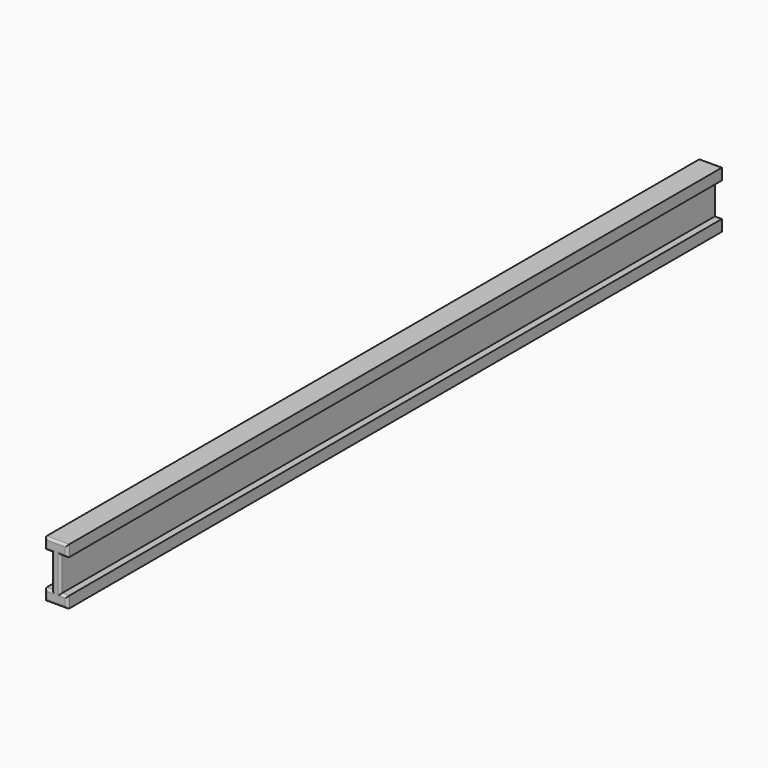
from build123d import *

# Parameters (mm, degrees)
F1_DEPTH = 2900
F2_R     = 8
F3_R     = 5


with BuildPart() as f1:
    # F0 (on Front) → F1 (new body)
    with BuildSketch(Plane.XZ):
        Polygon((36.482626, 127.592679), (-43.517374, 127.592679), (-43.517374, 87.592679), (-18.517374, 87.592679), (-18.517374, -32.407321), (-43.517374, -32.407321), (-43.517374, -72.407321), (36.482626, -72.407321), (36.482626, -32.407321), (11.482626, -32.407321), (11.482626, 87.592679), (36.482626, 87.592679), align=None)
    extrude(amount=F1_DEPTH)

    # F2
    f2_edges = [f1.edges().sort_by_distance(p)[0] for p in [
        (-3.517374, -2900, 127.592679),
        (-43.517374, -2900, 107.592679),
        (-31.017374, -2900, 87.592679),
        (-18.517374, -2900, 27.592679),
        (-31.017374, -2900, -32.407321),
        (-43.517374, -2900, -52.407321),
        (-3.517374, -2900, -72.407321),
        (36.482626, -2900, -52.407321),
        (23.982626, -2900, -32.407321),
        (11.482626, -2900, 27.592679),
        (23.982626, -2900, 87.592679),
        (36.482626, -2900, 107.592679),
    ]]
    fillet(f2_edges, radius=F2_R)

    # F3
    f3_edges = [f1.edges().sort_by_distance(p)[0] for p in [
        (-3.517374, 0, 127.592679),
        (-43.517374, 0, 107.592679),
        (-31.017374, 0, 87.592679),
        (-18.517374, 0, 27.592679),
        (-31.017374, 0, -32.407321),
        (-43.517374, 0, -52.407321),
        (-3.517374, 0, -72.407321),
        (36.482626, 0, -52.407321),
        (23.982626, 0, -32.407321),
        (11.482626, 0, 27.592679),
        (23.982626, 0, 87.592679),
        (36.482626, 0, 107.592679),
    ]]
    fillet(f3_edges, radius=F3_R)


solid = f1.part
